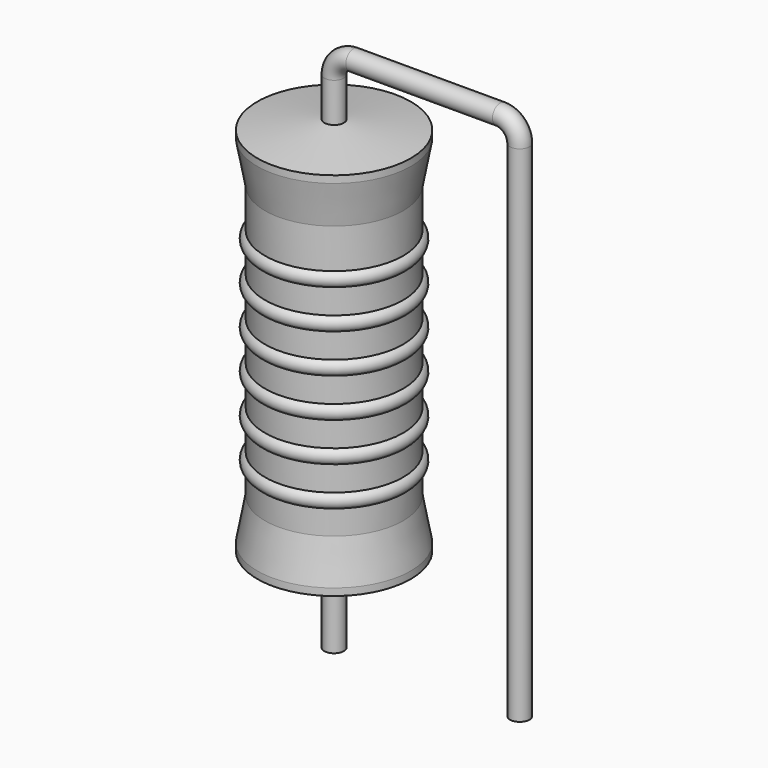
from build123d import *

# Parameters (mm, degrees)
SKETCH_R = 0.4


with BuildPart() as revolution:
    # Sketch002 → Revolution (revolve)
    with BuildSketch(Plane.XZ):
        Polygon((0, 0.1), (0, 16.1), (0.3, 16.1), (3.15, 15.7), (3.15, 15.4075), (2.835, 13.7), (2.835, 2.5), (3.15, 0.7925), (3.15, 0.5), (0.3, 0.1), align=None)
    revolve(axis=Axis((0, 0, 0), (0, 0, 1)))


with BuildPart() as sweep_body:
    # Sweep: sweep along a path in Sketch001
    with BuildLine(Plane.XZ) as sweep_path:
        Line((0, -3), (0, 17.7))
        ThreePointArc((0, 17.7), (0.234312, 18.265683), (0.799993, 18.5))
        Line((0.799993, 18.5), (6.82, 18.5))
        ThreePointArc((6.82, 18.5), (7.385685, 18.265685), (7.62, 17.7))
        Line((7.62, 17.7), (7.62, -3))
    # Sketch → Sweep (sweep)
    with BuildSketch(Plane.XY.offset(-2)):
        Circle(SKETCH_R)
    sweep(path=sweep_path.line)


with BuildPart() as obj1:
    # Sketch003 → Revolution001 (revolve)
    with BuildSketch(Plane.XZ):
        with BuildLine():
            Line((2.52, 13.07), (2.52, 2.5))
            Line((2.52, 2.5), (2.709, 2.5))
            Line((2.709, 2.5), (2.709, 3.47))
            ThreePointArc((2.709, 3.47), (3.024, 3.785), (2.709, 4.1))
            Line((2.709, 4.1), (2.709, 5.07))
            ThreePointArc((2.709, 5.07), (3.024, 5.385), (2.709, 5.7))
            Line((2.709, 5.7), (2.709, 6.67))
            ThreePointArc((2.709, 6.67), (3.024, 6.985), (2.709, 7.3))
            Line((2.709, 7.3), (2.709, 8.27))
            ThreePointArc((2.709, 8.27), (3.024, 8.585), (2.709, 8.9))
            Line((2.709, 8.9), (2.709, 9.87))
            ThreePointArc((2.709, 9.87), (3.024, 10.185), (2.709, 10.5))
            Line((2.709, 10.5), (2.709, 11.47))
            ThreePointArc((2.709, 11.47), (3.024, 11.785), (2.709, 12.1))
            Line((2.709, 13.07), (2.709, 12.1))
            Line((2.52, 13.07), (2.709, 13.07))
        make_face()
    revolve(axis=Axis((0, 0, 0), (0, 0, 1)))

    # obj1: union Revolution, Sweep body
    add(revolution.part)
    add(sweep_body.part)


solid = obj1.part
